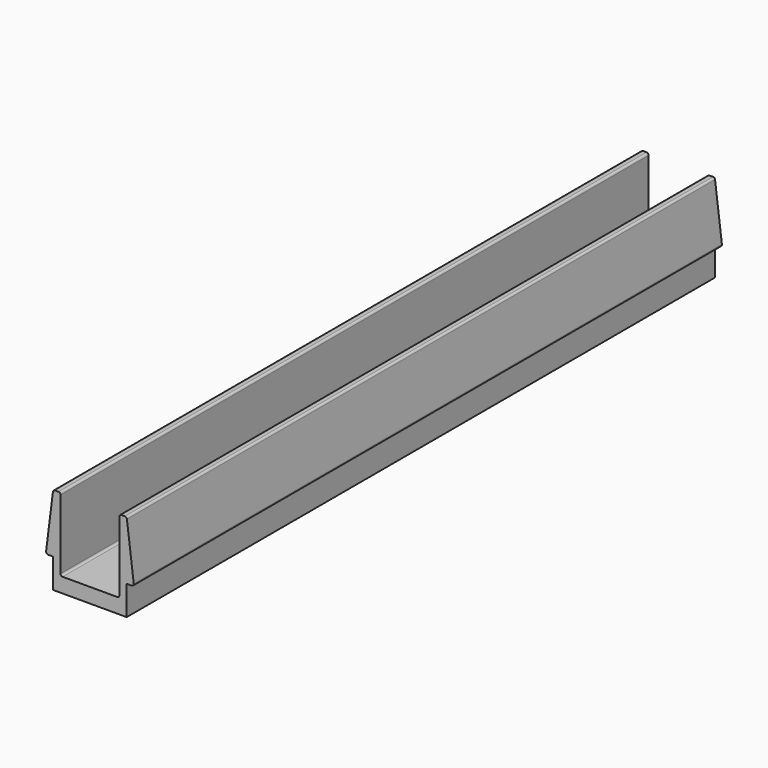
from build123d import *

# Parameters (mm, degrees)
F1_DEPTH = 50


with BuildPart() as f1:
    # F0 (on Front) → F1 (new body)
    with BuildSketch(Plane.XZ):
        with BuildLine():
            Line((-2.5, 0), (0, 0))
            Line((0, 0), (2.5, 0))
            Line((2.5, 0), (2.5, 2))
            Line((2.5, 2), (2.842854, 2))
            ThreePointArc((2.842854, 2), (2.946854, 2.046917), (2.980508, 2.155933))
            Line((2.980508, 2.155933), (2.51519, 5.878481))
            ThreePointArc((2.51519, 5.878481), (2.469344, 5.965274), (2.377535, 6))
            Line((2.377535, 6), (2.138726, 6))
            ThreePointArc((2.138726, 6), (2.040632, 5.959368), (2, 5.861274))
            Line((2, 5.861274), (2, 1.138726))
            ThreePointArc((2, 1.138726), (1.959368, 1.040632), (1.861274, 1))
            Line((1.861274, 1), (0, 1))
            Line((0, 1), (-1.861274, 1))
            ThreePointArc((-1.861274, 1), (-1.959368, 1.040632), (-2, 1.138726))
            Line((-2, 1.138726), (-2, 5.861274))
            ThreePointArc((-2, 5.861274), (-2.040632, 5.959368), (-2.138726, 6))
            Line((-2.138726, 6), (-2.377535, 6))
            ThreePointArc((-2.377535, 6), (-2.469344, 5.965274), (-2.51519, 5.878481))
            Line((-2.51519, 5.878481), (-2.980508, 2.155933))
            ThreePointArc((-2.980508, 2.155933), (-2.946854, 2.046917), (-2.842854, 2))
            Line((-2.842854, 2), (-2.5, 2))
            Line((-2.5, 2), (-2.5, 0))
        make_face()
    extrude(amount=F1_DEPTH)


solid = f1.part
